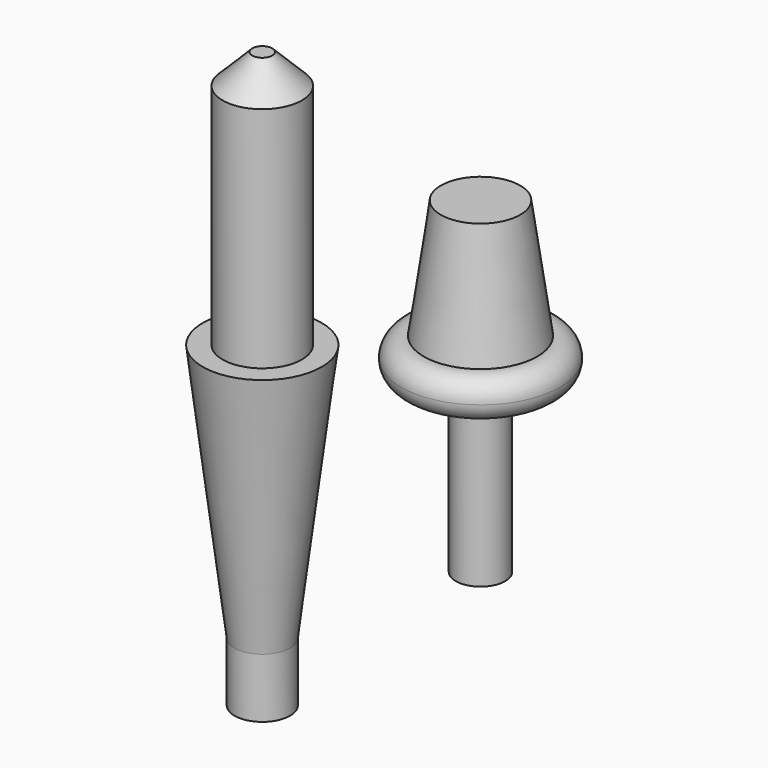
from build123d import *

# Parameters (mm, degrees)
CYLINDER009_R     = 2
CYLINDER009_DEPTH = 20
CHAMFER_SIZE      = 1.5
TORUS001_R        = 1
CYLINDER012_R     = 1.25
CYLINDER012_DEPTH = 11
CYLINDER011_R     = 1.33
CYLINDER011_DEPTH = 20
CYLINDER010_R     = 1.4
CYLINDER010_DEPTH = 3


with BuildPart() as chamfer_body:
    # Cylinder009 → Cylinder009 (new body)
    with BuildSketch(Plane(origin=(-39, 0, 18), x_dir=(1, 0, 0), z_dir=(0, 0, 1))):
        Circle(CYLINDER009_R)
    extrude(amount=CYLINDER009_DEPTH)

    # Chamfer
    chamfer_edges = [chamfer_body.edges().sort_by_distance(p)[0] for p in [
        (-41, 0, 38),
    ]]
    chamfer(chamfer_edges, length=CHAMFER_SIZE)


with BuildPart() as chamfer_body_1:
    # Chamfer placement: moved
    add(chamfer_body.part.moved(Location((0, 0, -12))))


with BuildPart() as cone009:
    # Cone009 → Cone009 (revolve)
    with BuildSketch(Plane(origin=(6, 0, 23), x_dir=(-1, 0, 0), z_dir=(0, -1, 0))):
        Polygon((0, 0), (2, 0), (3, 7), (0, 7), align=None)
    revolve(axis=Axis((6, 0, 23), (0, 0, -1)))


with BuildPart() as torus001:
    # Torus001 → Torus001 (revolve)
    with BuildSketch(Plane(origin=(6, 0, 16), x_dir=(1, 0, 0), z_dir=(0, -1, 0))):
        with Locations((3, 0)):
            Circle(TORUS001_R)
    revolve(axis=Axis((6, 0, 16), (0, 0, 1)))


with BuildPart() as fusion:
    # Cylinder012 → Cylinder012 (new body)
    with BuildSketch(Plane(origin=(6, 0, 6.5), x_dir=(1, 0, 0), z_dir=(0, 0, 1))):
        Circle(CYLINDER012_R)
    extrude(amount=CYLINDER012_DEPTH)

    # Fusion: union Cone009, Torus001
    add(cone009.part)
    add(torus001.part)


with BuildPart() as fusion_1:
    # Fusion placement: moved
    add(fusion.part.moved(Location((-34, 0, 0))))


with BuildPart() as magnetcavity006:
    # Cylinder011 → Cylinder011 (new body)
    with BuildSketch(Plane(origin=(-39, 0, 1.5), x_dir=(1, 0, 0), z_dir=(0, 0, 1))):
        Circle(CYLINDER011_R)
    extrude(amount=CYLINDER011_DEPTH)


with BuildPart() as cut:
    # Cone008 → Cone008 (revolve)
    with BuildSketch(Plane(origin=(-39, 0, 0), x_dir=(1, 0, 0), z_dir=(0, -1, 0))):
        Polygon((0, 0), (1.4, 0), (3, 13), (0, 13), align=None)
    revolve(axis=Axis((-39, 0, 0), (0, 0, 1)))

    # Cut: cut MagnetCavity006
    add(magnetcavity006.part, mode=Mode.SUBTRACT)


with BuildPart() as fusion001:
    # Cylinder010 → Cylinder010 (new body)
    with BuildSketch(Plane(origin=(-39, 0, -3), x_dir=(1, 0, 0), z_dir=(0, 0, 1))):
        Circle(CYLINDER010_R)
    extrude(amount=CYLINDER010_DEPTH)

    # Fusion001: union Cut
    add(cut.part)


solid = Compound([chamfer_body_1.part, fusion_1.part, fusion001.part])
